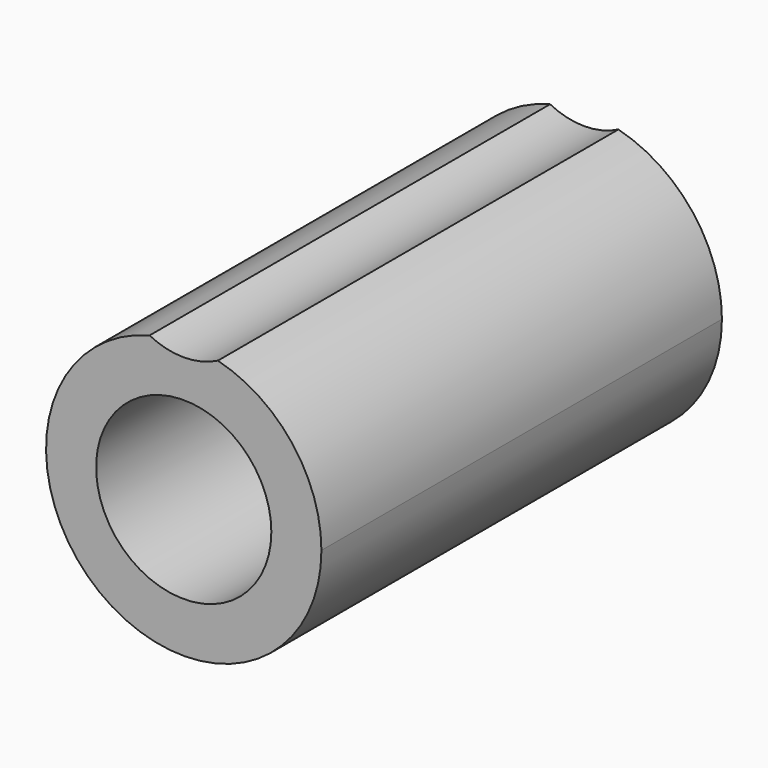
from build123d import *

# Parameters (mm, degrees)
F0_R     = 8.75
F0_R_2   = 7
F1_DEPTH = 40
F2_DEPTH = 20


with BuildPart() as f1:
    # F0 (on Front) → F1 (new body)
    with BuildSketch(Plane.XZ):
        with BuildLine():
            ThreePointArc((-2.728431, 10.65625), (-6.744897, -8.68944), (11, 0))
            ThreePointArc((11, 0), (8.68944, 6.744897), (2.728431, 10.65625))
            ThreePointArc((2.728431, 10.65625), (0, 10), (-2.728431, 10.65625))
        make_face()
        Circle(F0_R, mode=Mode.SUBTRACT)
        Circle(F0_R)
        Circle(F0_R_2, mode=Mode.SUBTRACT)
    extrude(amount=F1_DEPTH)

    # F0 (on Front) → F2 (cut)
    with BuildSketch(Plane.XZ):
        Circle(F0_R)
        Circle(F0_R_2, mode=Mode.SUBTRACT)
    extrude(amount=F2_DEPTH, mode=Mode.SUBTRACT)


solid = f1.part
